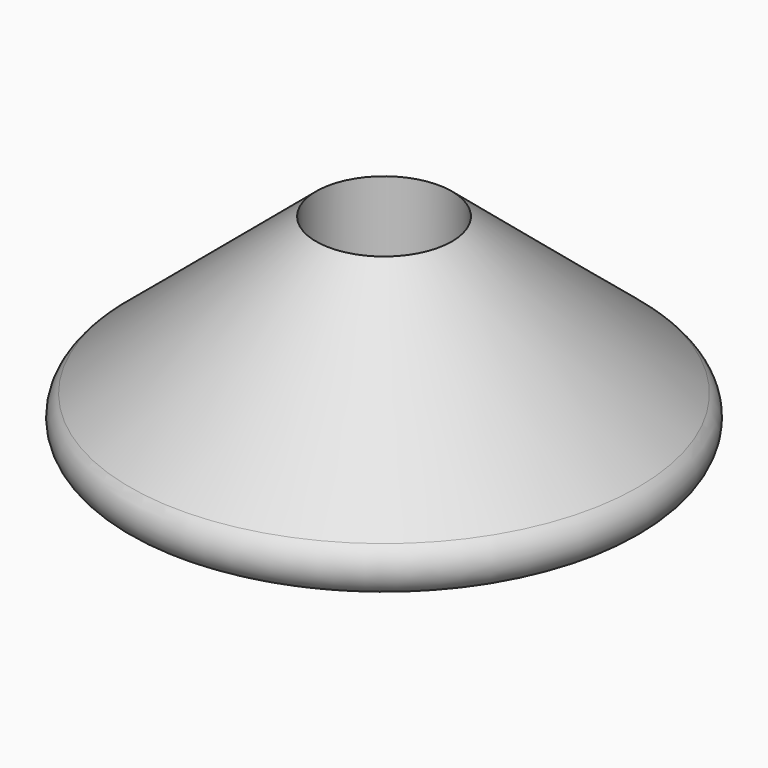
from build123d import *

# Parameters (mm, degrees)
F2_R = 5.08


with BuildPart() as f1:
    # F0 (on Front) → F1 (revolve)
    with BuildSketch(Plane.XZ):
        Polygon((12.7, 38.1), (12.7, 0), (58.250668, 0), align=None)
    revolve(axis=Axis((0, 0, 24.468667), (0, 0, -1)))

    # F2
    f2_edges = [f1.edges().sort_by_distance(p)[0] for p in [
        (-58.250668, 0, 0),
    ]]
    fillet(f2_edges, radius=F2_R)


solid = f1.part
